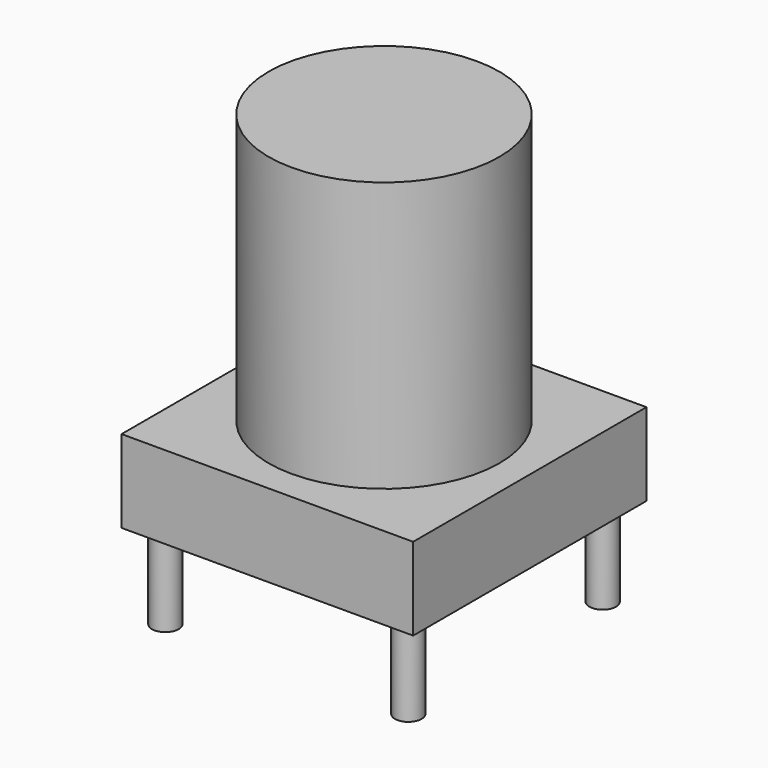
from build123d import *

# Parameters (mm, degrees)
SKETCH_W     = 12
SKETCH_H     = 12
PAD_DEPTH    = 3.4
SKETCH001_R  = 4.75
PAD001_DEPTH = 11.1
SKETCH002_R  = 3.571924
POCKET_DEPTH = 1
SKETCH003_R  = 0.55
PAD002_DEPTH = 4.572


with BuildPart() as part:
    # Sketch → Pad (new body)
    with BuildSketch(Plane.XY):
        Rectangle(SKETCH_W, SKETCH_H)
    extrude(amount=PAD_DEPTH)

    # Sketch001 (on Face6 of Pad) → Pad001 (join)
    with BuildSketch(Plane.XY.offset(3.4)):
        Circle(SKETCH001_R)
    extrude(amount=PAD001_DEPTH)

    # Sketch002 (on Face4 of Pad001) → Pocket (cut)
    with BuildSketch(Plane(origin=(0, 0, 0), x_dir=(1, 0, 0), z_dir=(0, 0, -1))):
        Circle(SKETCH002_R)
    extrude(amount=-POCKET_DEPTH, mode=Mode.SUBTRACT)

    # Sketch003 (on Face9 of Pocket) → Pad002 (join)
    with BuildSketch(Plane(origin=(0, 0, 1), x_dir=(1, 0, 0), z_dir=(0, 0, -1))):
        Circle(SKETCH003_R)
        with Locations((-5, 5)):
            Circle(SKETCH003_R)
        with Locations((5, 5)):
            Circle(SKETCH003_R)
        with Locations((5, -5)):
            Circle(SKETCH003_R)
        with Locations((-5, -5)):
            Circle(SKETCH003_R)
    extrude(amount=PAD002_DEPTH)


solid = part.part
